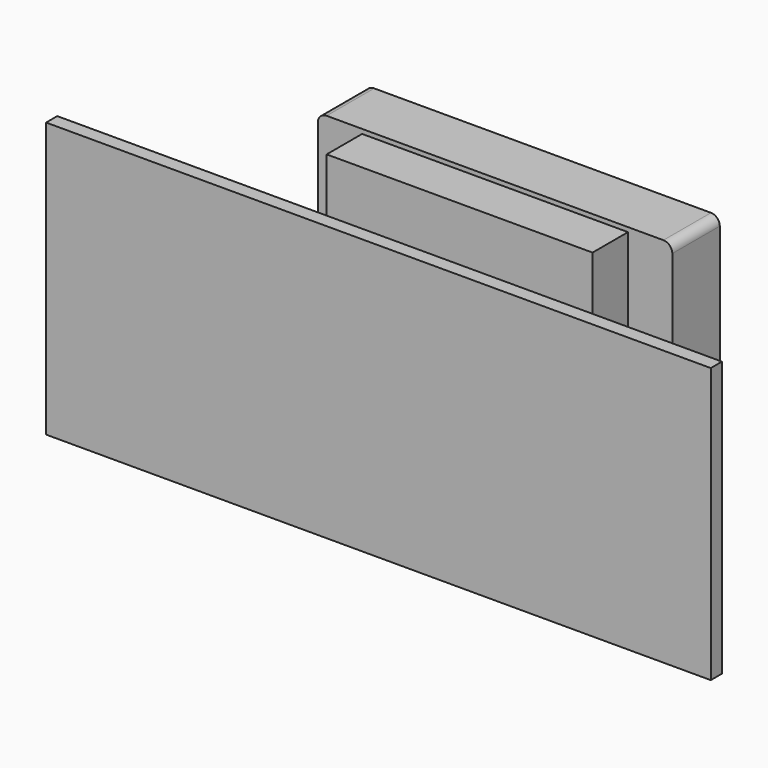
from build123d import *

# Parameters (mm, degrees)
F0_W      = 40
F0_H      = 31
F1_DEPTH  = 6.7
F2_R      = 1
F3_W      = 30
F3_H      = 30
F4_DEPTH  = 5
F6_DEPTH  = 8.3
F7_R      = 7.725
F8_DEPTH  = 8.15
F9_W      = 75
F9_H      = 31
F10_DEPTH = 1.5748


with BuildPart() as f1:
    # F0 (on Front) → F1 (new body)
    with BuildSketch(Plane.XZ):
        Rectangle(F0_W, F0_H)
    extrude(amount=-F1_DEPTH)

    # F2
    f2_edges = [f1.edges().sort_by_distance(p)[0] for p in [
        (-20, 3.35, 15.5),
        (-20, 3.35, -15.5),
        (20, 3.35, 15.5),
        (20, 3.35, -15.5),
    ]]
    fillet(f2_edges, radius=F2_R)

    # F3 (on face) → F4 (join)
    with BuildSketch(Plane.XZ):
        Rectangle(F3_W, F3_H)
    extrude(amount=F4_DEPTH)

    # F5 (on face) → F6 (join)
    with BuildSketch(Plane.XZ):
        Polygon((8.625, 2.15), (8.625, 8.45), (-8.625, 8.45), (-8.625, 2.15), (-8.625, -2.15), (-8.625, -8.45), (8.625, -8.45), (8.625, -2.15), align=None)
        with BuildLine():
            ThreePointArc((8.625, -2.15), (10.775, 0), (8.625, 2.15))
            Line((8.625, 2.15), (8.625, -2.15))
        make_face()
        with BuildLine():
            Line((-8.625, -2.15), (-8.625, 2.15))
            ThreePointArc((-8.625, 2.15), (-10.775, 0), (-8.625, -2.15))
        make_face()
    extrude(amount=F6_DEPTH)

    # F7 (on face) → F8 (join)
    with BuildSketch(Plane.XZ.offset(8.3)):
        Circle(F7_R)
    extrude(amount=F8_DEPTH)

    # F9 (on face) → F10 (join)
    with BuildSketch(Plane.XZ.offset(16.45)):
        Rectangle(F9_W, F9_H)
    extrude(amount=-F10_DEPTH)


solid = f1.part
